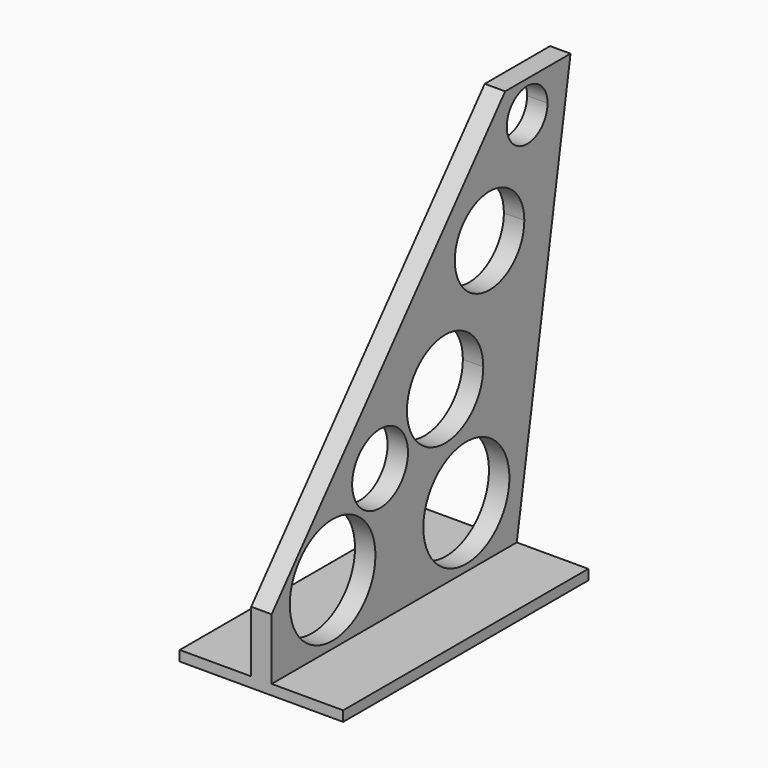
from build123d import *

# Parameters (mm, degrees)
F1_DEPTH = 0.5
F2_W     = 15
F2_H     = 0.5
F3_DEPTH = 4
F4_R     = 2.6209807332
F5_DEPTH = 25
F6_R     = 1.7070089516
F7_DEPTH = 25


with BuildPart() as f1:
    # F0 (on Right) → F1 (new body, symmetric)
    with BuildSketch(Plane.YZ):
        Polygon((-15, 0), (0, 0), (3.2893587091, 19.7276485999), (-0.7106412909, 19.7276485999), (-15, 3), align=None)
    extrude(amount=F1_DEPTH, both=True)

    # F2 (on Right) → F3 (join, symmetric)
    with BuildSketch(Plane.YZ):
        with Locations((-7.5, -0.25)):
            Rectangle(F2_W, F2_H)
    extrude(amount=F3_DEPTH, both=True)

    # F4 (on face) → F5 (cut)
    with BuildSketch(Plane.YZ.offset(0.5)):
        with BuildLine():
            ThreePointArc((-0.4529937069, 2.964487765), (-3.0851524789, 5.5966465369), (-5.7173112508, 2.964487765))
            ThreePointArc((-5.7173112508, 2.964487765), (-3.0851524789, 0.332328993), (-0.4529937069, 2.964487765))
        make_face()
        with Locations((-11.2699056044, 2.964487765)):
            Circle(F4_R)
        with BuildLine():
            Line((-3.3178431468, 10.4724832487), (-5.453436658, 6.3182523414))
            ThreePointArc((-5.453436658, 6.3182523414), (-3.16893319, 6.4018223867), (-2.0501317095, 8.395367795))
            ThreePointArc((-2.0501317095, 8.395367795), (-2.392094494, 9.6120745074), (-3.3178431468, 10.4724832487))
        make_face()
        with BuildLine():
            ThreePointArc((-3.3178431468, 10.4724832487), (-6.462755356, 9.4631645506), (-5.453436658, 6.3182523414))
            Line((-5.453436658, 6.3182523414), (-3.3178431468, 10.4724832487))
        make_face()
        with BuildLine():
            Line((-0.6935525003, 15.577344851), (-2.6388447391, 11.7932946093))
            ThreePointArc((-2.6388447391, 11.7932946093), (-0.5579118075, 11.8694177852), (0.4611940407, 13.6853197301))
            ThreePointArc((0.4611940407, 13.6853197301), (0.1497033252, 14.7936065423), (-0.6935525003, 15.577344851))
        make_face()
        with BuildLine():
            ThreePointArc((-0.6935525003, 15.577344851), (-3.5582237405, 14.6579658495), (-2.6388447391, 11.7932946093))
            Line((-2.6388447391, 11.7932946093), (-0.6935525003, 15.577344851))
        make_face()
        with BuildLine():
            ThreePointArc((1.8837464303, 18.1615501642), (-0.0156576164, 19.2275183887), (0.0639659937, 17.0508962192))
            ThreePointArc((0.0639659937, 17.0508962192), (1.285512338, 17.0955819397), (1.8837464303, 18.1615501642))
        make_face()
    extrude(amount=-F5_DEPTH, mode=Mode.SUBTRACT)

    # F6 (on face) → F7 (cut)
    with BuildSketch(Plane.YZ.offset(0.5)):
        with Locations((-8.3660604432, 6.5863626078)):
            Circle(F6_R)
    extrude(amount=-F7_DEPTH, mode=Mode.SUBTRACT)


solid = f1.part
